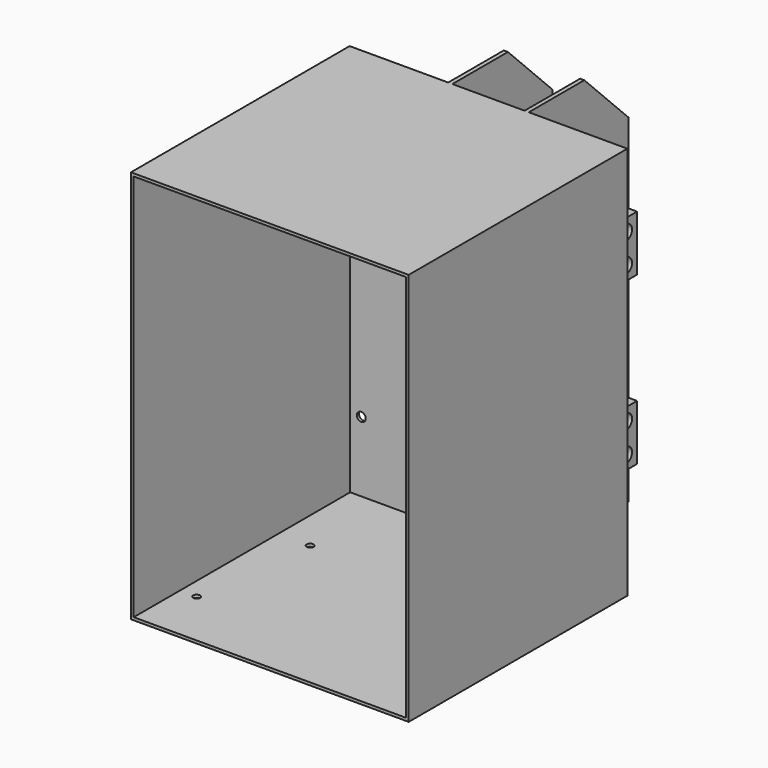
from build123d import *

# Parameters (mm, degrees)
F0_W          = 249.936
F0_H          = 359.918
F1_DEPTH      = 127
F2_T          = -2.54
F3_W          = 14.986
F3_H          = 50.8
F4_DEPTH      = 73.152
F5_R          = 6.731
F6_DEPTH      = 127.001
F6_DEPTH_BACK = 127.001
F7_R          = 3.175
F8_DEPTH      = 2.54
F9_R          = 4.064
F10_DEPTH     = 75.693
F11_W         = 3.81
F11_H         = 359.918
F12_DEPTH     = 139.7
F14_DEPTH     = 163.831


with BuildPart() as f1:
    # F0 (on Right) → F1 (new body, symmetric)
    with BuildSketch(Plane.YZ):
        Rectangle(F0_W, F0_H)
    extrude(amount=F1_DEPTH, both=True)

    # F2
    f2_openings = [f1.faces().sort_by_distance(p)[0] for p in [
        (0, -124.968, 0),
    ]]
    offset(amount=F2_T, openings=f2_openings)

    # F3 (on face) → F4 (join)
    with BuildSketch(Plane(origin=(0, 124.968, 0), x_dir=(-1, 0, 0), z_dir=(0, 1, 0))):
        with Locations((69.85, -94.361)):
            Rectangle(F3_W, F3_H)
        with Locations((69.85, 58.039)):
            Rectangle(F3_W, F3_H)
        with Locations((0, -94.361)):
            Rectangle(F3_W, F3_H)
        with Locations((0, 58.039)):
            Rectangle(F3_W, F3_H)
        with Locations((-69.85, -94.361)):
            Rectangle(F3_W, F3_H)
        with Locations((-69.85, 58.039)):
            Rectangle(F3_W, F3_H)
    extrude(amount=F4_DEPTH)

    # F5 (on Right) → F6 (cut, two sides)
    with BuildSketch(Plane.YZ) as f6_sk:
        with Locations((185.674, 71.501)):
            Circle(F5_R)
        with Locations((185.674, 44.577)):
            Circle(F5_R)
        with Locations((185.674, -80.899)):
            Circle(F5_R)
        with Locations((185.674, -107.823)):
            Circle(F5_R)
    extrude(amount=F6_DEPTH, mode=Mode.SUBTRACT)
    extrude(f6_sk.sketch, amount=-F6_DEPTH_BACK, mode=Mode.SUBTRACT)

    # F7 (on face) → F8 (cut, through all)
    with BuildSketch(Plane(origin=(0, 0, -179.959), x_dir=(1, 0, 0), z_dir=(0, 0, -1))):
        with Locations((-109.22, 72.136)):
            Circle(F7_R)
        with Locations((109.22, 72.136)):
            Circle(F7_R)
        with Locations((95.25, -40.132)):
            Circle(F7_R)
        with Locations((-95.25, -40.132)):
            Circle(F7_R)
    extrude(amount=-F8_DEPTH, mode=Mode.SUBTRACT)

    # F9 (on face) → F10 (cut, through all)
    with BuildSketch(Plane.XZ.offset(-122.428)):
        with Locations((-114.3, 77.089)):
            Circle(F9_R)
        with Locations((114.3, 77.089)):
            Circle(F9_R)
        with Locations((114.3, -113.411)):
            Circle(F9_R)
        with Locations((-114.3, -113.411)):
            Circle(F9_R)
    extrude(amount=-F10_DEPTH, mode=Mode.SUBTRACT)

    # F11 (on face) → F12 (join)
    with BuildSketch(Plane(origin=(0, 124.968, 0), x_dir=(-1, 0, 0), z_dir=(0, 1, 0))):
        with Locations((-34.925, 0)):
            Rectangle(F11_W, F11_H)
        with Locations((34.925, 0)):
            Rectangle(F11_W, F11_H)
    extrude(amount=F12_DEPTH)

    # F13 (on face) → F14 (cut, through all)
    with BuildSketch(Plane.YZ.offset(36.83)):
        Polygon((264.668, 103.759), (264.668, 179.959), (188.468, 179.959), (239.268, 129.159), (239.268, -179.959), (264.668, -179.959), align=None)
    extrude(amount=-F14_DEPTH, mode=Mode.SUBTRACT)


solid = f1.part
